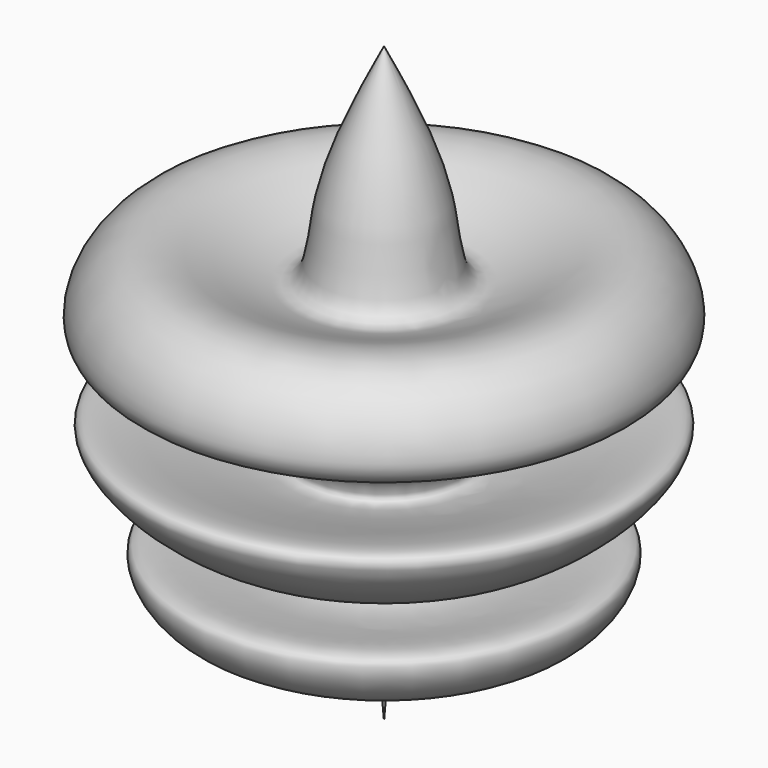
from build123d import *


with BuildPart() as f1:
    # F0 (on Front) → F1 (revolve)
    with BuildSketch(Plane.XZ):
        with BuildLine():
            Line((0, 69.8704868555), (0, -35.7648395002))
            add(Edge.make_bspline(
                [(0, -35.7648395002), (0.6811607014, -25.7887859648), (2.0416540498, -5.8634519719), (29.5551283352, -23.9448489779), (40.5297622981, -2.3465548213), (16.5941850494, -13.671850068), (1.5023711317, 0.9547925491), (28.354513402, -9.3097836723), (55.4068451228, 21.8821847259), (4.5779343667, -2.2709415638), (24.6387928316, 22.4139671456), (50.3660557053, 20.6280252211), (36.7912283184, 47.1724700189), (10.4137765135, 26.0421029646), (11.0767773726, 47.541631435), (4.1210354519, 61.5631965947), (0, 69.8704868555)],
                knots=[0, 0, 0, 0, 0.0785795589, 0.1569482312, 0.2114705176, 0.2828232962, 0.3367015623, 0.4101041386, 0.4853206301, 0.5723274426, 0.6364407295, 0.7121287913, 0.7773742851, 0.8558099348, 0.9145723954, 1, 1, 1, 1], degree=3))
        make_face()
    revolve(axis=Axis((0, 0, 17.0528236777), (0, 0, -1)))


solid = f1.part
